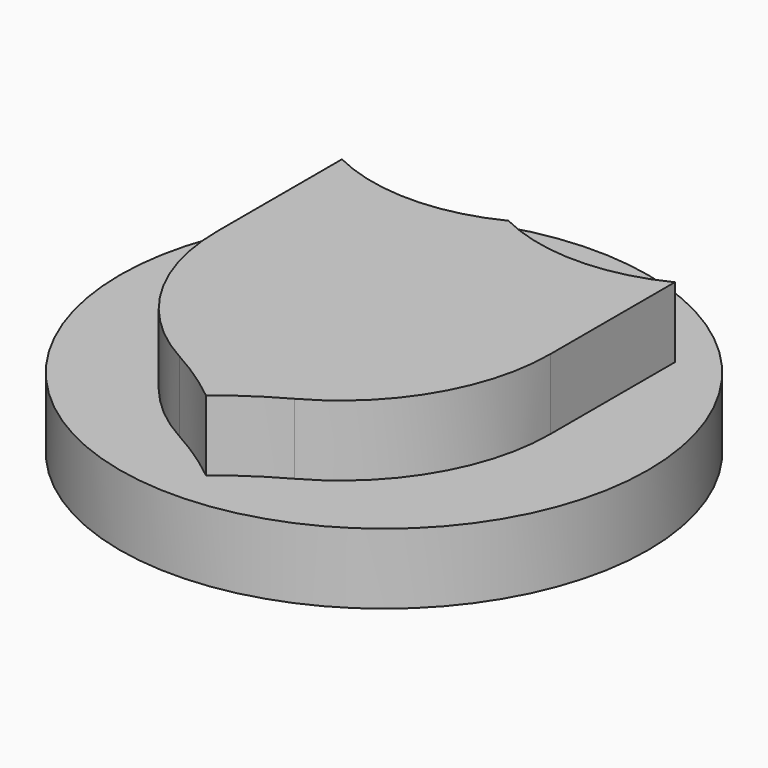
from build123d import *

# Parameters (mm, degrees)
F0_R     = 7.5
F1_DEPTH = 2
F3_DEPTH = 2


with BuildPart() as f1:
    # F0 (on Top) → F1 (new body)
    with BuildSketch(Plane.XY):
        Circle(F0_R)
    extrude(amount=F1_DEPTH)

    # F2 (on face) → F3 (join)
    with BuildSketch(Plane.XY.offset(2)):
        with BuildLine():
            ThreePointArc((-1.634316, -5.22253), (-0.792326, -5.735097), (0, -6.321519))
            ThreePointArc((0, -6.321519), (0.792326, -5.735097), (1.634316, -5.22253))
            ThreePointArc((1.634316, -5.22253), (3.895395, -3.034618), (4.726373, 0))
            Line((4.726373, 0), (4.726373, 4.415748))
            ThreePointArc((4.726373, 4.415748), (2.363187, 3.860301), (0, 4.415748))
            ThreePointArc((0, 4.415748), (-2.363187, 3.860301), (-4.726373, 4.415748))
            Line((-4.726373, 4.415748), (-4.726373, 0))
            ThreePointArc((-4.726373, 0), (-3.895395, -3.034618), (-1.634316, -5.22253))
        make_face()
    extrude(amount=F3_DEPTH)


solid = f1.part
